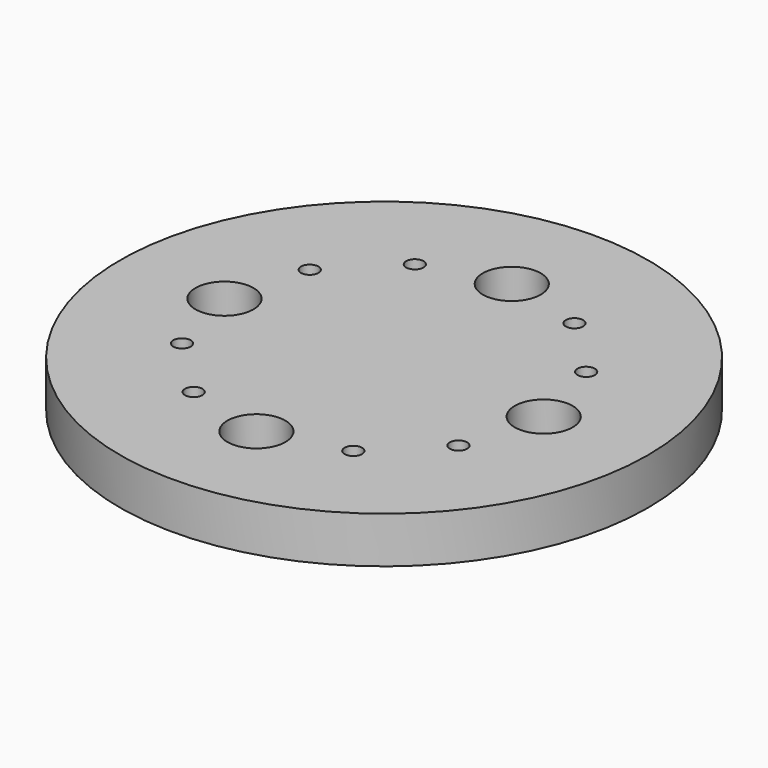
from build123d import *

# Parameters (mm, degrees)
SKETCH_R              = 45.533695
PAD_DEPTH             = 8
SKETCH001_R           = 5
POCKET_DEPTH          = 266.074935
POLARPATTERN_COUNT    = 4
SKETCH002_R           = 1.5
POCKET001_DEPTH       = 266.074935
POLARPATTERN001_COUNT = 12


with BuildPart() as part:
    # Sketch → Pad (new body)
    with BuildSketch(Plane.XY):
        Circle(SKETCH_R)
    extrude(amount=PAD_DEPTH)

    # Sketch001 (on Face3 of Pad) → Pocket (cut, through all)
    with BuildSketch(Plane.XY.offset(8)):
        with Locations((0, 27.533695)):
            Circle(SKETCH001_R)
    pocket = extrude(amount=-POCKET_DEPTH, mode=Mode.SUBTRACT)

    # PolarPattern: Pocket ×4 about axis
    polarpattern_axis = Axis((0, 0, 8), (0, 0, 1))
    for i in range(1, POLARPATTERN_COUNT):
        add(pocket.rotate(polarpattern_axis, i * 360 / POLARPATTERN_COUNT), mode=Mode.SUBTRACT)

    # Sketch002 (on Face3 of Pad) → Pocket001 (cut, through all)
    with BuildSketch(Plane.XY.offset(8)):
        with Locations((-13.766847, 23.844879)):
            Circle(SKETCH002_R)
    pocket001 = extrude(amount=-POCKET001_DEPTH, mode=Mode.SUBTRACT)

    # PolarPattern001: Pocket001 ×12 about axis
    polarpattern001_axis = Axis((0, 0, 8), (0, 0, 1))
    for i in range(1, POLARPATTERN001_COUNT):
        add(pocket001.rotate(polarpattern001_axis, i * 360 / POLARPATTERN001_COUNT), mode=Mode.SUBTRACT)


solid = part.part
